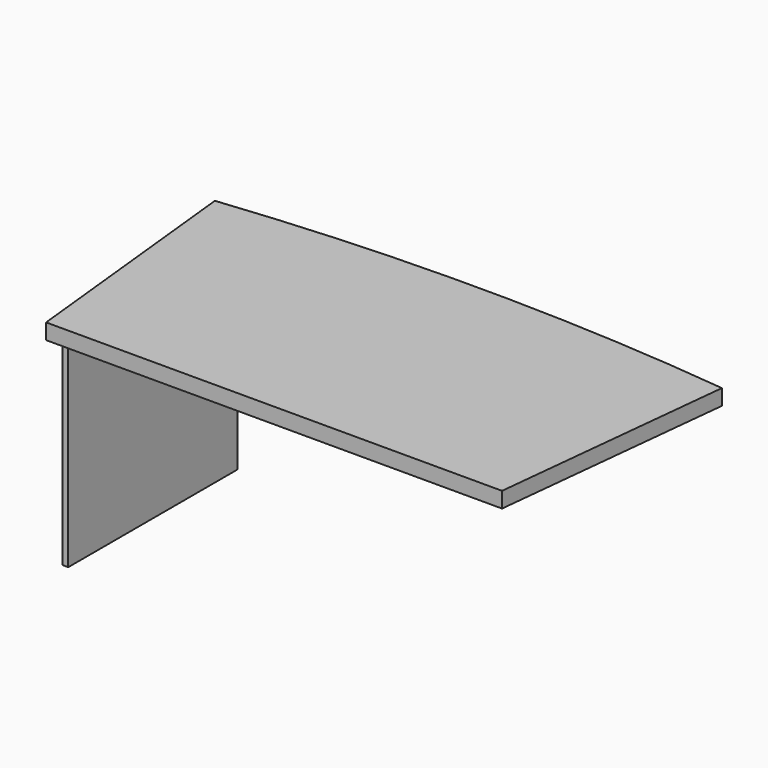
from build123d import *

# Parameters (mm, degrees)
F1_DEPTH = 48
F2_W     = 18
F2_H     = 650
F3_DEPTH = 625


with BuildPart() as f1:
    # F0 (on Top) → F1 (new body)
    with BuildSketch(Plane.XY):
        with BuildLine():
            Line((-746.740544, 363.455387), (-668.344196, -382.436034))
            Line((-668.344196, -382.436034), (731.655804, -382.436034))
            Line((731.655804, -382.436034), (810.052151, 363.455387))
            ThreePointArc((810.052151, 363.455387), (31.655804, 405.779681), (-746.740544, 363.455387))
        make_face()
        with BuildLine():
            Line((-746.740544, 363.455387), (-668.344196, -382.436034))
            Line((-668.344196, -382.436034), (731.655804, -382.436034))
            Line((731.655804, -382.436034), (810.052151, 363.455387))
            ThreePointArc((810.052151, 363.455387), (31.655804, 405.779681), (-746.740544, 363.455387))
        make_face()
    extrude(amount=F1_DEPTH)


with BuildPart() as f3:
    # F2 (on face) → F3 (new body)
    with BuildSketch(Plane.XY):
        with Locations((-649.344196, -7.436034)):
            Rectangle(F2_W, F2_H)
    extrude(amount=-F3_DEPTH)


solid = Compound([f1.part, f3.part])
